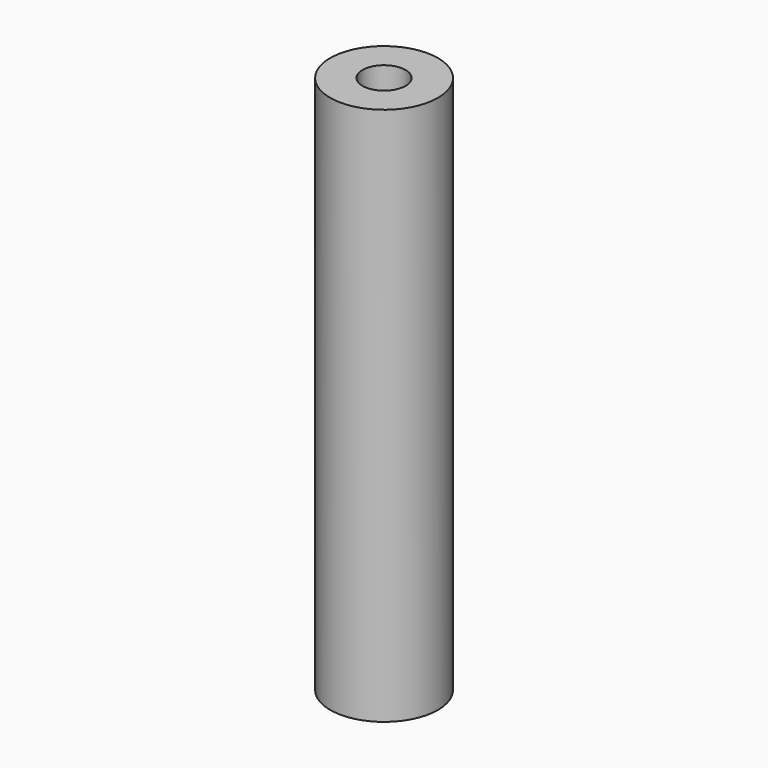
from build123d import *

# Parameters (mm, degrees)
F0_R        = 2.5
F0_R_2      = 1
F1_DEPTH    = 1
F1_FACE_R   = 2.5
F1_FACE_R_2 = 1
F2_DEPTH    = 25


with BuildPart() as f1:
    # F0 (on Top) → F1 (new body)
    with BuildSketch(Plane.XY):
        Circle(F0_R)
        Circle(F0_R_2, mode=Mode.SUBTRACT)
    extrude(amount=F1_DEPTH)

    # F0 (on Top) + F1_face (on face) → F2 (join)
    with BuildSketch(Plane.XY):
        Circle(F0_R)
        Circle(F0_R_2, mode=Mode.SUBTRACT)
    with BuildSketch(Plane(origin=(0, 0, 0), x_dir=(1, 0, 0), z_dir=(0, 0, -1))):
        Circle(F1_FACE_R)
        Circle(F1_FACE_R_2, mode=Mode.SUBTRACT)
    extrude(amount=F2_DEPTH, dir=(0, 0, 1))


solid = f1.part
